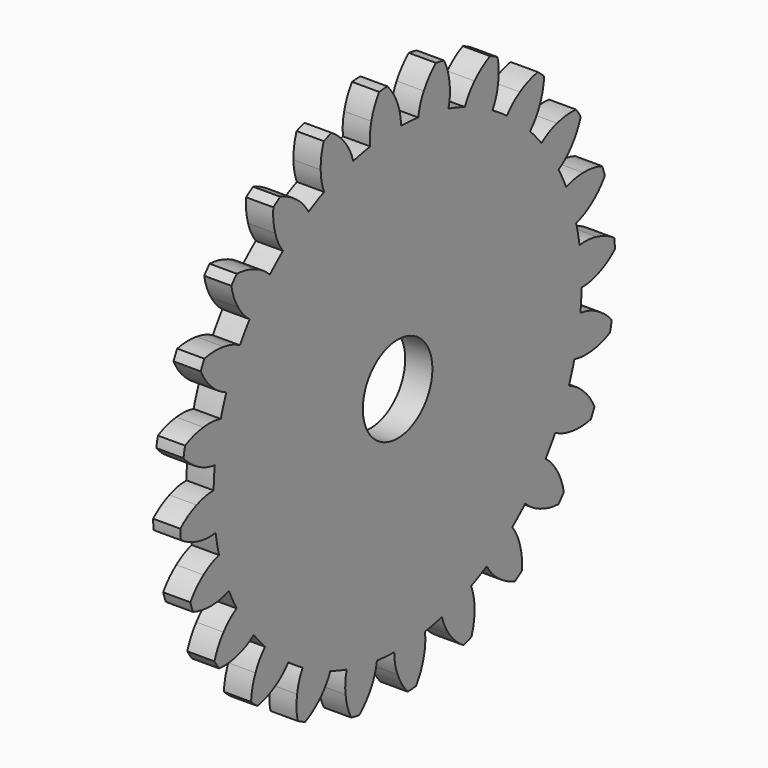
from build123d import *

# Parameters (mm, degrees)
F1_DEPTH = 6.35
F2_COUNT = 24
F3_R     = 10.16
F4_DEPTH = 25.4


with BuildPart() as f1:
    # F0 (on Right) → F1 (new body)
    with BuildSketch(Plane.YZ):
        with BuildLine():
            ThreePointArc((-7.9883170522, 53.1237482834), (-35.0485767232, -40.7129354221), (53.721, 0))
            ThreePointArc((53.721, 0), (38.3334793094, 37.6362884068), (0.9859353125, 53.7119518595))
            ThreePointArc((0.9859353125, 53.7119518595), (-3.5135215054, 53.6059792153), (-7.9883170522, 53.1237482834))
        make_face()
        with BuildLine():
            ThreePointArc((-7.9883170522, 53.1237482834), (-3.5135215054, 53.6059792153), (0.9859353125, 53.7119518595))
            ThreePointArc((0.9859353125, 53.7119518595), (0.7360126147, 56.2412678045), (0, 58.674))
            ThreePointArc((0, 58.674), (-1.2438704988, 61.19285878), (-2.940529377, 63.4318791065))
            ThreePointArc((-2.940529377, 63.4318791065), (-4.1547164899, 63.388724237), (-5.3641489046, 63.2730266901))
            ThreePointArc((-5.3641489046, 63.2730266901), (-6.7540418333, 60.83170307), (-7.6584938023, 58.1720357962))
            ThreePointArc((-7.6584938023, 58.1720357962), (-8.0706744569, 55.6640470379), (-7.9883170522, 53.1237482834))
        make_face()
    extrude(amount=F1_DEPTH)

    # F2: F1 ×24 about axis
    f2_axis = Axis((0, 0, 0), (-1, 0, 0))


with BuildPart() as f1_1:
    add(f1.part)
    for i in range(1, F2_COUNT):
        add(f1.part.rotate(f2_axis, i * 360 / F2_COUNT))

    # F3 (on face) → F4 (cut)
    with BuildSketch(Plane.YZ.offset(6.35)):
        Circle(F3_R)
    extrude(amount=-F4_DEPTH, mode=Mode.SUBTRACT)


solid = f1_1.part
